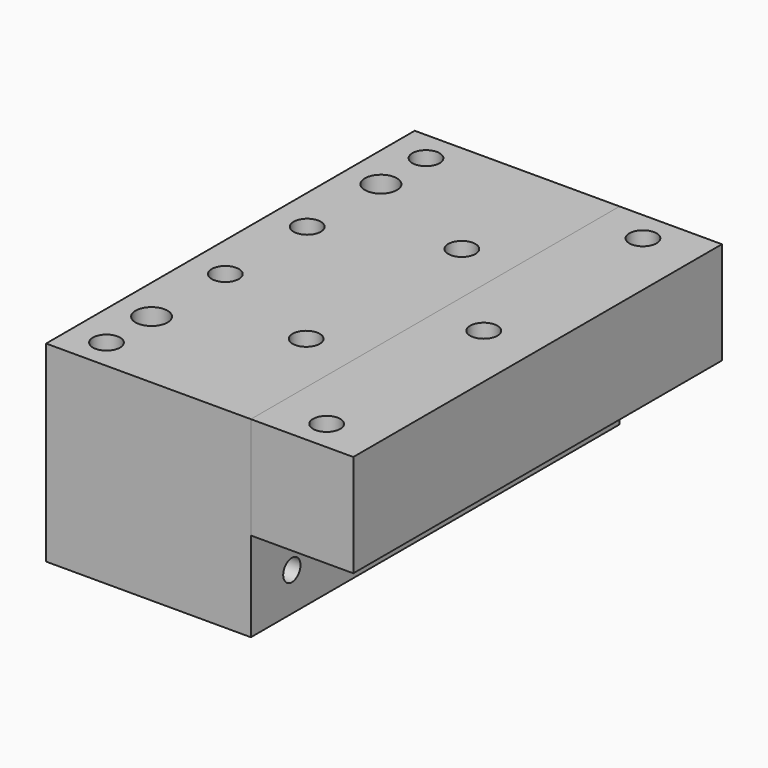
from build123d import *

# Parameters (mm, degrees)
F0_W     = 101.6
F0_H     = 228.6
F1_DEPTH = 95.25
F0_W_2   = 50.8
F2_DEPTH = 50.8
F4_D     = 13.49375
F4_DEPTH = 63.5
F4_TIP   = 4.053931489
F5_D     = 13.49375
F5_DEPTH = 63.5
F5_TIP   = 4.053931489
F6_D     = 15.875
F8_D     = 10.715625
F8_DEPTH = 50.8
F8_TIP   = 3.2192985354


with BuildPart() as f1:
    # F0 (on Top) → F1 (new body)
    with BuildSketch(Plane.XY):
        with Locations((-25.4, 0)):
            Rectangle(F0_W, F0_H)
    extrude(amount=-F1_DEPTH)

    # F4
    with Locations(Plane.XY):
        with Locations((-58.42, 99.06), (-58.42, 25.4), (-58.42, -25.4), (-58.42, -99.06), (50.8, -99.06), (49.4907237589, 0), (49.2157712579, 99.06), (0, 48.26), (0, -48.26)):
            Hole(F4_D / 2, depth=F4_DEPTH)
            with Locations((0, 0, -(F4_DEPTH + F4_TIP / 2))):  # 118° drill point
                Cone(0, F4_D / 2, F4_TIP, mode=Mode.SUBTRACT)

    # F6 (through all)
    with Locations(Plane.XY):
        with Locations((-58.42, 71.12), (-58.42, -71.12)):
            Hole(F6_D / 2)

    # F8
    with Locations(Plane.YZ.offset(25.4)):
        with Locations((-88.9, -76.2), (0, -76.2), (88.9, -76.2)):
            Hole(F8_D / 2, depth=F8_DEPTH)
            with Locations((0, 0, -(F8_DEPTH + F8_TIP / 2))):  # 118° drill point
                Cone(0, F8_D / 2, F8_TIP, mode=Mode.SUBTRACT)


with BuildPart() as f2:
    # F0 (on Top) → F2 (new body)
    with BuildSketch(Plane.XY):
        with Locations((50.8, 0)):
            Rectangle(F0_W_2, F0_H)
    extrude(amount=-F2_DEPTH)

    # F5
    with Locations(Plane.XY):
        with Locations((49.2157712579, 99.06), (49.4907237589, 0), (50.8, -99.06)):
            Hole(F5_D / 2, depth=F5_DEPTH)
            with Locations((0, 0, -(F5_DEPTH + F5_TIP / 2))):  # 118° drill point
                Cone(0, F5_D / 2, F5_TIP, mode=Mode.SUBTRACT)


solid = Compound([f1.part, f2.part])
